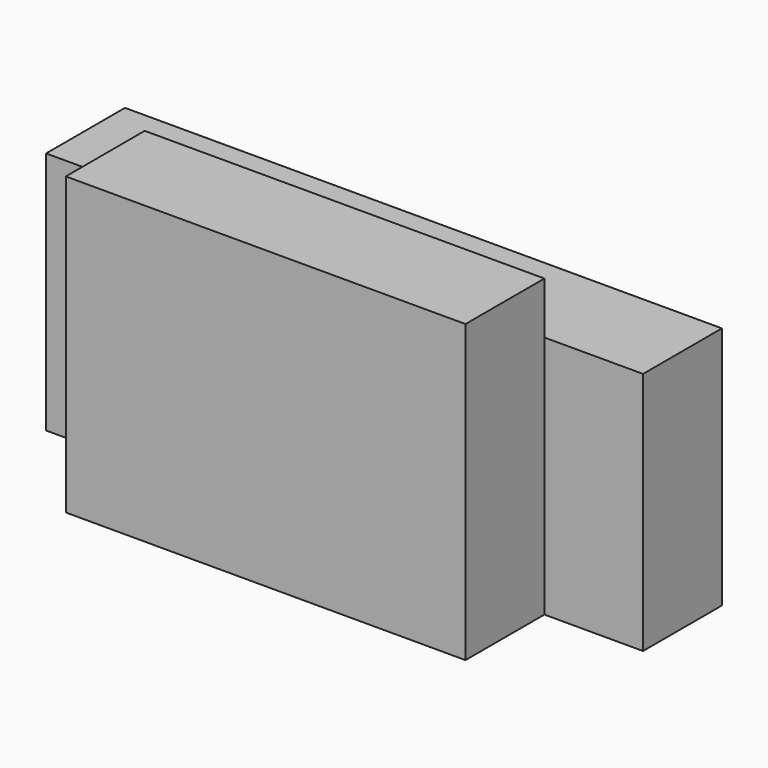
from build123d import *

# Parameters (mm, degrees)
F0_W     = 230
F0_H     = 114
F1_DEPTH = 76
F3_W     = 38
F3_H     = 20
F4_DEPTH = 230.001
F6_W     = 38
F6_H     = 38
F7_DEPTH = 114.001


with BuildPart() as f1:
    # F0 (on Front) → F1 (new body)
    with BuildSketch(Plane.XZ):
        Rectangle(F0_W, F0_H)
    extrude(amount=F1_DEPTH)

    # F3 (on offset) → F4 (cut, through all)
    with BuildSketch(Plane.YZ.offset(115)):
        with Locations((-19, 47)):
            Rectangle(F3_W, F3_H)
    extrude(amount=-F4_DEPTH, mode=Mode.SUBTRACT)

    # F6 (on offset) → F7 (cut, through all)
    with BuildSketch(Plane.XY.offset(57)):
        with Locations((-96, -57)):
            Rectangle(F6_W, F6_H)
        with Locations((96, -57)):
            Rectangle(F6_W, F6_H)
    extrude(amount=-F7_DEPTH, mode=Mode.SUBTRACT)


solid = f1.part
